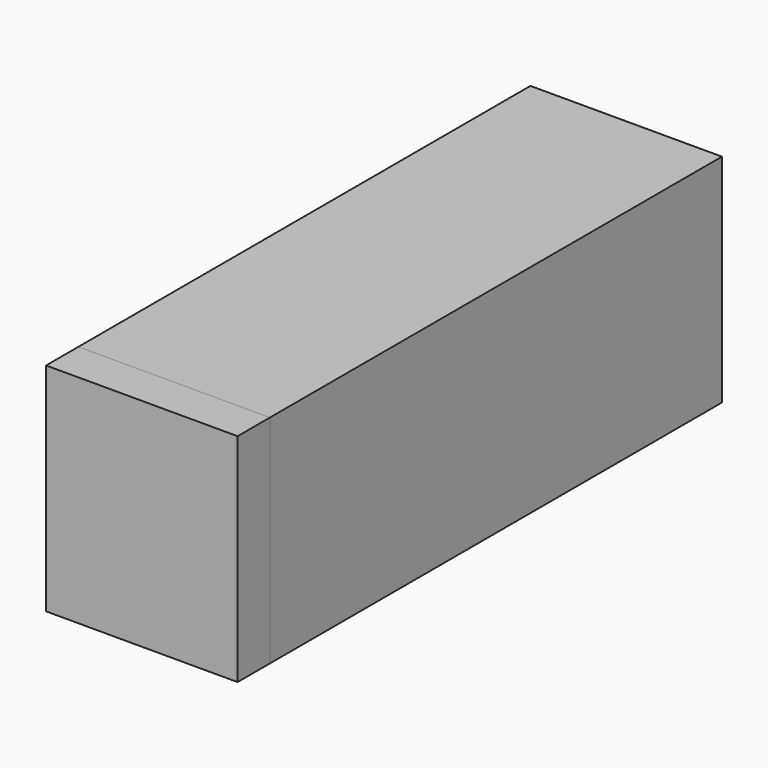
from build123d import *

# Parameters (mm, degrees)
F0_W      = 95.116782
F0_H      = 136.240802
F1_DEPTH  = 381
F1_FACE_W = 381
F1_FACE_H = 136.240802
F2_DEPTH  = 25.4
F2_FACE_W = 120.516782
F2_FACE_H = 136.240802
F3_DEPTH  = 25.4
F4_T      = -12.7


with BuildPart() as f1:
    # F0 (on Front) → F1 (new body)
    with BuildSketch(Plane.XZ):
        with Locations((-24.758338, 0.839267)):
            Rectangle(F0_W, F0_H)
    extrude(amount=F1_DEPTH)

    # F1_face (on face) → F2 (join)
    with BuildSketch(Plane(origin=(-72.316729, -190.5, 0.839267), x_dir=(0, -1, 0), z_dir=(-1, 0, 0))):
        Rectangle(F1_FACE_W, F1_FACE_H)
    extrude(amount=F2_DEPTH)

    # F4
    f4_openings = [f1.faces().sort_by_distance(p)[0] for p in [
        (-37.458338, -381, 0.839267),
    ]]
    offset(amount=F4_T, openings=f4_openings)


with BuildPart() as f3:
    # F2_face (on face) → F3 (new body)
    with BuildSketch(Plane(origin=(-37.458338, -381, 0.839267), x_dir=(1, 0, 0), z_dir=(0, -1, 0))):
        Rectangle(F2_FACE_W, F2_FACE_H)
    extrude(amount=-F3_DEPTH)


solid = Compound([f1.part, f3.part])
